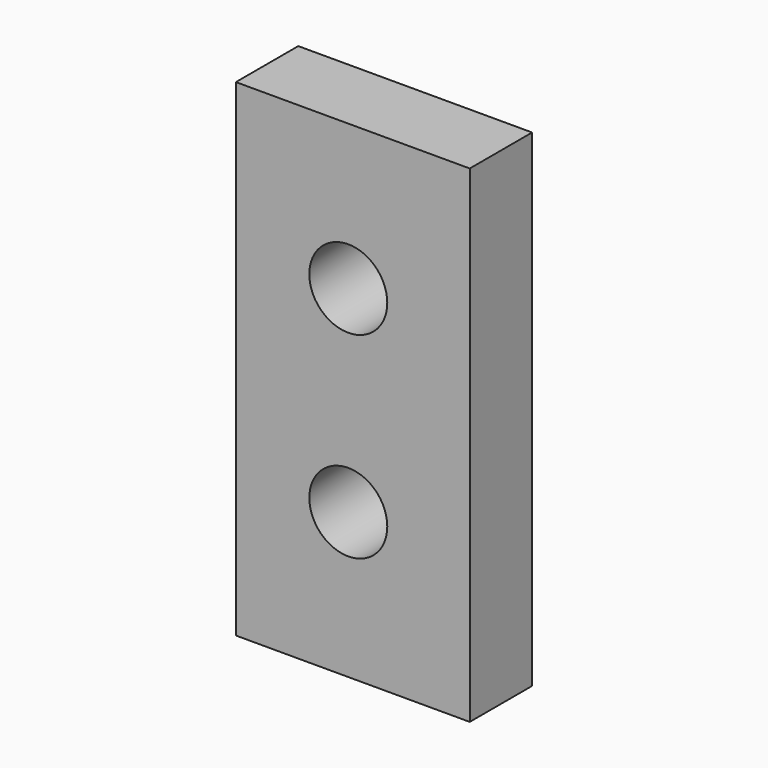
from build123d import *

# Parameters (mm, degrees)
F0_W     = 76.2
F0_H     = 25.4
F1_DEPTH = 158.75
F2_R     = 12.7
F3_DEPTH = 25.4


with BuildPart() as f1:
    # F0 (on Top) → F1 (new body)
    with BuildSketch(Plane.XY):
        with Locations((1.475252, 0)):
            Rectangle(F0_W, F0_H)
    extrude(amount=F1_DEPTH)

    # F2 (on face) → F3 (cut)
    with BuildSketch(Plane.XZ.offset(12.7)):
        with Locations((0, 111.450641)):
            Circle(F2_R)
        with Locations((0, 47.299359)):
            Circle(F2_R)
    extrude(amount=-F3_DEPTH, mode=Mode.SUBTRACT)


solid = f1.part
